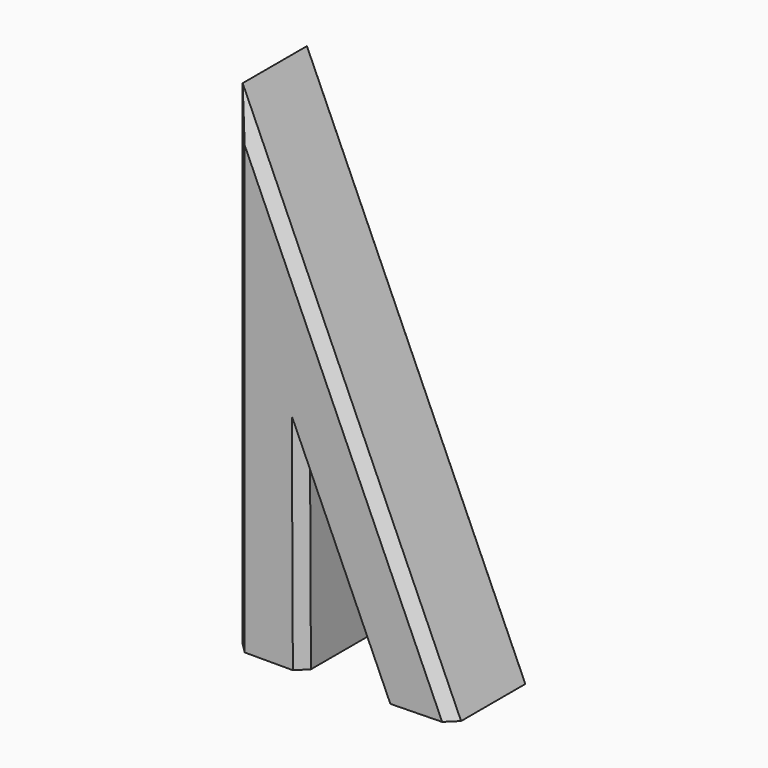
from build123d import *

# Parameters (mm, degrees)
F1_DEPTH = 10
F2_W     = 5
F2_H     = 5
F3_DEPTH = 5
F4_W     = 5
F4_H     = 5
F5_DEPTH = 2
F6_SIZE  = 1


with BuildPart() as f1:
    # F0 (on Front) → F1 (new body)
    with BuildSketch(Plane.XZ):
        Polygon((21.76041, -48.874682), (0, 0), (0, -49.2), (6.8, -49.2), (6.718023, -31.700192), (14.426186, -49.013011), align=None)
    extrude(amount=F1_DEPTH)

    # F2 (on face) → F3 (cut)
    with BuildSketch(Plane(origin=(0, 0, -49.2), x_dir=(1, 0, 0), z_dir=(0, 0, -1))):
        with Locations((3.4, 5)):
            Rectangle(F2_W, F2_H)
    extrude(amount=-F3_DEPTH, mode=Mode.SUBTRACT)

    # F4 (on face) → F5 (cut)
    with BuildSketch(Plane(origin=(0.929221, 0, -49.267573), x_dir=(0.999822, 0, 0.018857), z_dir=(0.018857, 0, -0.999822))):
        with Locations((17.16713, 5)):
            Rectangle(F4_W, F4_H)
    extrude(amount=-F5_DEPTH, mode=Mode.SUBTRACT)

    # F6
    f6_edges = [f1.edges().sort_by_distance(p)[0] for p in [
        (10.880205, -10, -24.437341),
        (10.572105, -10, -40.356601),
        (6.759011, 0, -40.450096),
        (6.759011, -10, -40.450096),
        (0, -10, -24.6),
        (0, 0, -24.6),
        (10.572105, 0, -40.356601),
        (10.880205, 0, -24.437341),
    ]]
    chamfer(f6_edges, length=F6_SIZE)


solid = f1.part
